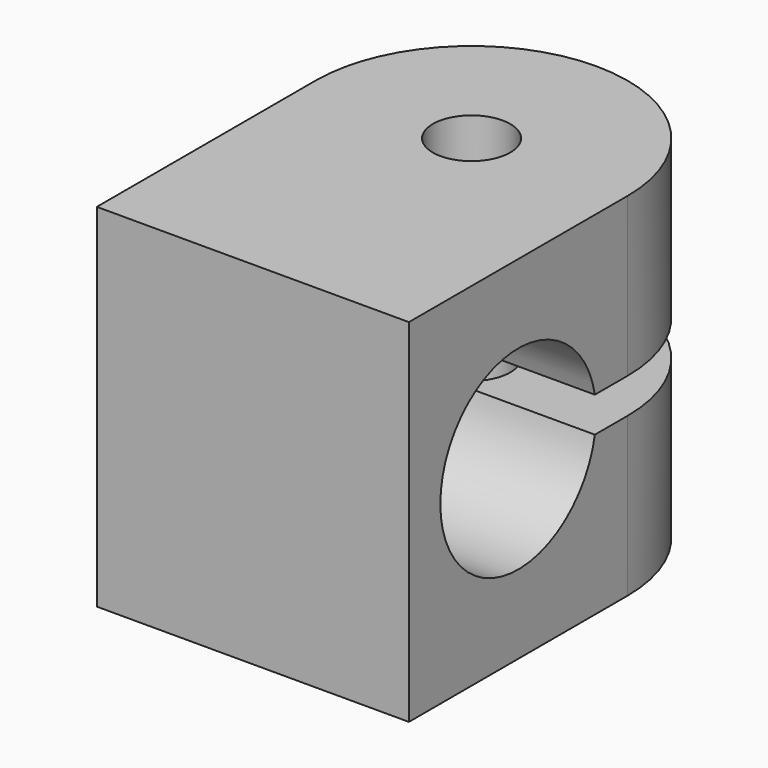
from build123d import *

# Parameters (mm, degrees)
F1_DEPTH = 15
F3_DEPTH = 13.3


with BuildPart() as f1:
    # F0 (on Top) → F1 (new body)
    with BuildSketch(Plane.XY):
        with BuildLine():
            Line((6.65, 0), (1.65, 0))
            ThreePointArc((1.65, 0), (0, -1.65), (-1.65, 0))
            Line((-1.65, 0), (-6.65, 0))
            ThreePointArc((-6.65, 0), (0, -6.65), (6.65, 0))
        make_face()
        with BuildLine():
            ThreePointArc((-1.65, 0), (0, 1.65), (1.65, 0))
            Line((1.65, 0), (6.65, 0))
            ThreePointArc((6.65, 0), (0, 6.65), (-6.65, 0))
            Line((-6.65, 0), (-1.65, 0))
        make_face()
        with BuildLine():
            Line((6.65, -11.65), (6.65, 0))
            ThreePointArc((6.65, 0), (0, -6.65), (-6.65, 0))
            Line((-6.65, 0), (-6.65, -11.65))
            Line((-6.65, -11.65), (6.65, -11.65))
        make_face()
    extrude(amount=F1_DEPTH)

    # F2 (on face) → F3 (cut, through all)
    with BuildSketch(Plane.YZ.offset(6.65)):
        with BuildLine():
            ThreePointArc((-1.7433336736, 6.75), (-1.6921187257, 7.1234467199), (-1.675, 7.5))
            ThreePointArc((-1.675, 7.5), (-1.6921187257, 7.8765532801), (-1.7433336736, 8.25))
            Line((-1.7433336736, 8.25), (-1.7433336736, 6.75))
        make_face()
        with BuildLine():
            ThreePointArc((-1.7433336736, 8.25), (-1.6921187257, 7.8765532801), (-1.675, 7.5))
            ThreePointArc((-1.675, 7.5), (-1.6921187257, 7.1234467199), (-1.7433336736, 6.75))
            Line((-1.7433336736, 6.75), (9.3667274341, 6.75))
            Line((9.3667274341, 6.75), (9.3667274341, 8.25))
            Line((9.3667274341, 8.25), (-1.7433336736, 8.25))
        make_face()
        with BuildLine():
            Line((-1.7433336736, 6.75), (-1.7433336736, 8.25))
            ThreePointArc((-1.7433336736, 8.25), (-9.975, 7.5), (-1.7433336736, 6.75))
        make_face()
    extrude(amount=-F3_DEPTH, mode=Mode.SUBTRACT)


solid = f1.part
